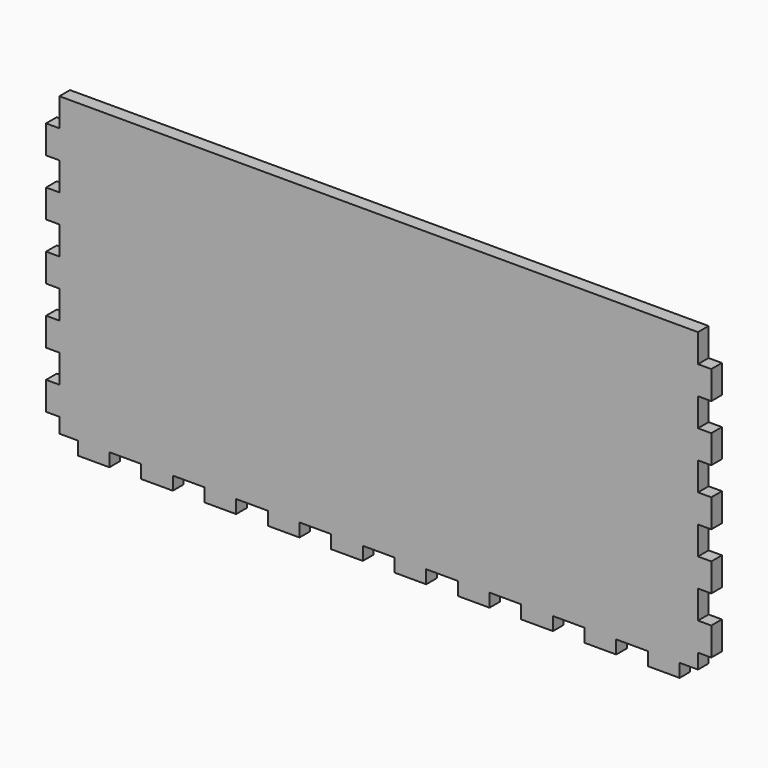
from build123d import *

# Parameters (mm, degrees)
F1_DEPTH = 6


with BuildPart() as f1:
    # F0 (on Front) → F1 (new body)
    with BuildSketch(Plane.XZ):
        Polygon((144, 57.272727), (144, 70), (-144, 70), (-144, 57.272727), (-150, 57.272727), (-150, 44.545455), (-144, 44.545455), (-144, 37.818182), (-144, 31.818182), (-150, 31.818182), (-150, 19.090909), (-144, 19.090909), (-144, 12.363636), (-144, 6.363636), (-150, 6.363636), (-150, -6.363636), (-144, -6.363636), (-144, -13.090909), (-144, -19.090909), (-150, -19.090909), (-150, -31.818182), (-144, -31.818182), (-144, -38.545455), (-144, -44.545455), (-150, -44.545455), (-150, -57.272727), (-144, -57.272727), (-144, -64), (-135.714286, -64), (-135.714286, -70), (-121.428571, -70), (-121.428571, -64), (-107.142857, -64), (-107.142857, -70), (-92.857143, -70), (-92.857143, -64), (-78.571429, -64), (-78.571429, -70), (-64.285714, -70), (-64.285714, -64), (-50, -64), (-50, -70), (-35.714286, -70), (-35.714286, -64), (-21.428571, -64), (-21.428571, -70), (-7.142857, -70), (-7.142857, -64), (7.142857, -64), (7.142857, -70), (21.428571, -70), (21.428571, -64), (35.714286, -64), (35.714286, -70), (50, -70), (50, -64), (64.285714, -64), (64.285714, -70), (78.571429, -70), (78.571429, -64), (92.857143, -64), (92.857143, -70), (107.142857, -70), (107.142857, -64), (121.428571, -64), (121.428571, -70), (135.714286, -70), (135.714286, -64), (144, -64), (144, -57.272727), (150, -57.272727), (150, -44.545455), (144, -44.545455), (144, -38.545455), (144, -31.818182), (150, -31.818182), (150, -19.090909), (144, -19.090909), (144, -13.090909), (144, -6.363636), (150, -6.363636), (150, 6.363636), (144, 6.363636), (144, 12.363636), (144, 19.090909), (150, 19.090909), (150, 31.818182), (144, 31.818182), (144, 37.818182), (144, 44.545455), (150, 44.545455), (150, 57.272727), align=None)
    extrude(amount=F1_DEPTH)


solid = f1.part
